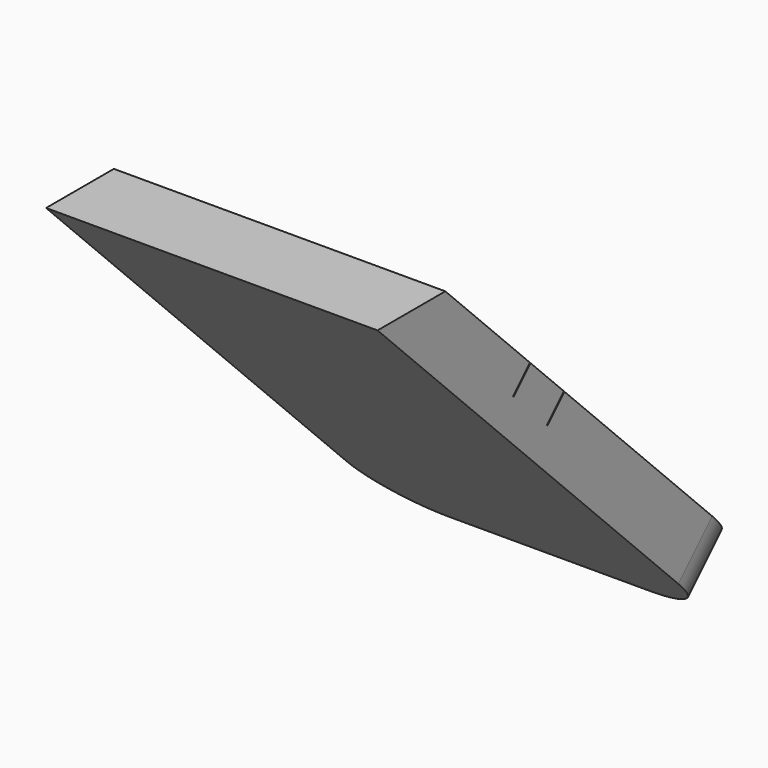
from build123d import *

# Parameters (mm, degrees)
PAD004_DEPTH    = 0.3
SKETCH021_W     = 3.544396
SKETCH021_H     = 2.825832
POCKET018_DEPTH = 1.17
POCKET020_DEPTH = 0.15


with BuildPart() as part:
    # Sketch020 (on Face1 of Binder003) → Pad004 (new body)
    with BuildSketch(Plane(origin=(0, -12.862132, -12.862132), x_dir=(1, 0, 0), z_dir=(0, 0.707107, 0.707107))):
        with BuildLine():
            Line((-0.83, -20.943965), (-0.83, -24.223965))
            Line((-0.83, -24.223965), (0.83, -24.223965))
            Line((0.83, -24.223965), (0.83, -20.943965))
            ThreePointArc((0.83, -20.943965), (0.733345, -20.710619), (0.5, -20.613965))
            Line((0.5, -20.613965), (-0.5, -20.613965))
            ThreePointArc((-0.5, -20.613965), (-0.733345, -20.710619), (-0.83, -20.943965))
        make_face()
    extrude(amount=PAD004_DEPTH)

    # Sketch021 → Pocket018 (cut)
    with BuildSketch(Plane.XY.offset(5)):
        with Locations((-0.03446, -29.285929)):
            Rectangle(SKETCH021_W, SKETCH021_H)
    extrude(amount=-POCKET018_DEPTH, mode=Mode.SUBTRACT)

    # Sketch024 (on Face4 of Pocket018) → Pocket020 (cut)
    with BuildSketch(Plane(origin=(0, -12.65, -12.65), x_dir=(-1, 0, 0), z_dir=(0, 0.707107, 0.707107))):
        with BuildLine():
            ThreePointArc((0.83, 22.256492), (0.832719, 22.253773), (0.83, 22.251054))
            Line((0.83, 22.251054), (0.276667, 22.251054))
            Line((0.276667, 22.251054), (-0.83, 22.251054))
            ThreePointArc((-0.83, 22.251054), (-0.832719, 22.253773), (-0.83, 22.256492))
            Line((0.276667, 22.256492), (-0.83, 22.256492))
            Line((0.83, 22.256492), (0.276667, 22.256492))
        make_face()
        with BuildLine():
            ThreePointArc((-0.83, 22.551978), (-0.832719, 22.554697), (-0.83, 22.557416))
            Line((-0.83, 22.557416), (-0.276667, 22.557416))
            Line((-0.276667, 22.557416), (0.83, 22.557416))
            ThreePointArc((0.83, 22.557416), (0.832719, 22.554697), (0.83, 22.551978))
            Line((-0.276667, 22.551978), (0.83, 22.551978))
            Line((-0.83, 22.551978), (-0.276667, 22.551978))
        make_face()
    extrude(amount=-POCKET020_DEPTH, mode=Mode.SUBTRACT)


solid = part.part
